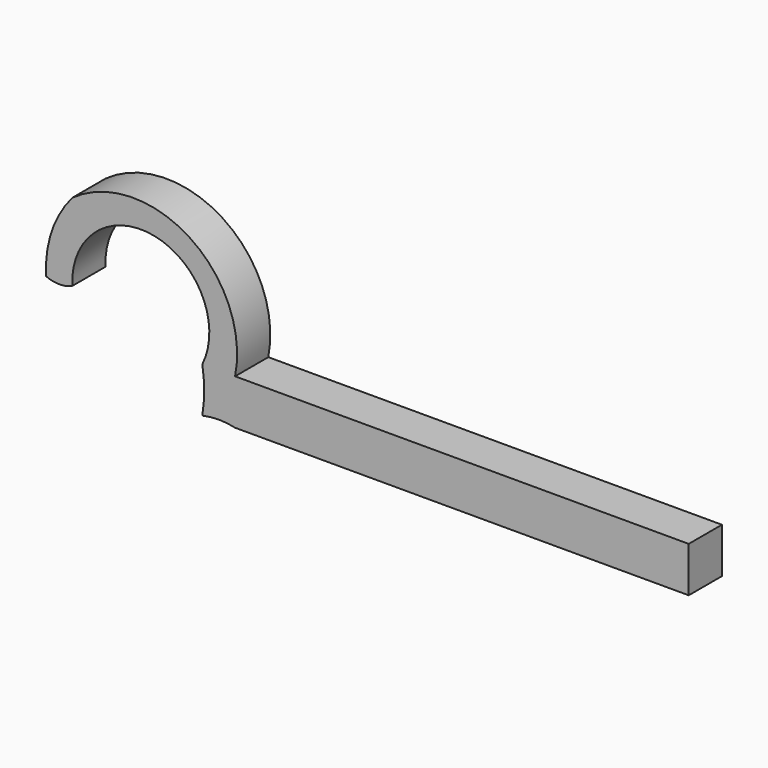
from build123d import *

# Parameters (mm, degrees)
F0_W     = 27.765898
F0_H     = 2.771887
F1_DEPTH = 2.54


with BuildPart() as f1:
    # F0 (on Front) → F1 (new body)
    with BuildSketch(Plane.XZ):
        with Locations((13.882949, 1.385943)):
            Rectangle(F0_W, F0_H)
        with BuildLine():
            ThreePointArc((-2.005042, 0), (-1.002521, 0.11442), (0, 0))
            Line((0, 0), (0, 2.771887))
            ThreePointArc((0, 2.771887), (-2.805906, 9.360966), (-9.964567, 9.154444))
            ThreePointArc((-9.964567, 9.154444), (-11.227924, 6.933785), (-11.567924, 4.401634))
            ThreePointArc((-11.567924, 4.401634), (-10.766245, 4.229005), (-9.964567, 4.401634))
            ThreePointArc((-9.964567, 4.401634), (-4.931976, 8.728671), (-2.005042, 2.771887))
            ThreePointArc((-2.005042, 2.771887), (-1.889447, 1.385943), (-2.005042, 0))
        make_face()
    extrude(amount=F1_DEPTH)


solid = f1.part
